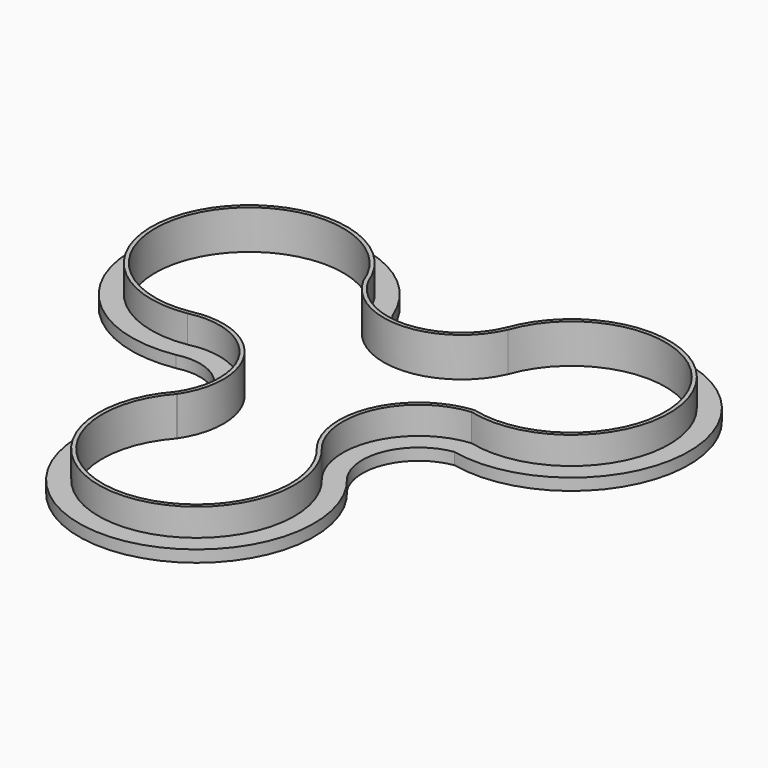
from build123d import *

# Parameters (mm, degrees)
F1_DEPTH = 3
F2_DEPTH = 10


with BuildPart() as f1:
    # F0 (on Top) → F1 (new body)
    with BuildSketch(Plane.XY):
        with BuildLine():
            ThreePointArc((11.75598, 34.46051), (-0.188241, 26.310271), (-12.897683, 33.206712))
            ThreePointArc((-12.897683, 33.206712), (-66.969323, 37.378844), (-35.915981, -7.082813))
            ThreePointArc((-35.915981, -7.082813), (-22.055212, -12.196979), (-21.628703, -26.964976))
            ThreePointArc((-21.628703, -26.964976), (0.871706, -76.686678), (23.722724, -27.12513))
            ThreePointArc((23.722724, -27.12513), (22.633328, -13.447379), (33.536886, -5.117908))
            ThreePointArc((33.536886, -5.117908), (66.226082, 38.654176), (11.75598, 34.46051))
        make_face()
        with BuildLine():
            ThreePointArc((-36.907983, -2.179073), (-62.499458, 35.120673), (-17.444433, 31.090865))
            ThreePointArc((-17.444433, 31.090865), (-0.055128, 21.310967), (16.39825, 32.594616))
            ThreePointArc((16.39825, 32.594616), (62.001748, 35.955299), (33.807071, -0.045165))
            ThreePointArc((33.807071, -0.045165), (18.206542, -11.104836), (19.741163, -30.166258))
            ThreePointArc((19.741163, -30.166258), (0.868135, -71.686626), (-17.640413, -30.002506))
            ThreePointArc((-17.640413, -30.002506), (-17.812054, -9.538309), (-36.907983, -2.179073))
        make_face(mode=Mode.SUBTRACT)
    extrude(amount=F1_DEPTH)

    # F0 (on Top) → F2 (join)
    with BuildSketch(Plane.XY):
        with BuildLine():
            ThreePointArc((16.39825, 32.594616), (-0.055128, 21.310967), (-17.444433, 31.090865))
            ThreePointArc((-17.444433, 31.090865), (-62.499458, 35.120673), (-36.907983, -2.179073))
            ThreePointArc((-36.907983, -2.179073), (-17.812054, -9.538309), (-17.640413, -30.002506))
            ThreePointArc((-17.640413, -30.002506), (0.868135, -71.686626), (19.741163, -30.166258))
            ThreePointArc((19.741163, -30.166258), (18.206542, -11.104836), (33.807071, -0.045165))
            ThreePointArc((33.807071, -0.045165), (62.001748, 35.955299), (16.39825, 32.594616))
        make_face()
        with BuildLine():
            ThreePointArc((-37.101393, -1.197366), (-61.627895, 34.630095), (-18.383489, 30.747101))
            Line((-18.383489, 30.747101), (-18.321174, 30.609903))
            ThreePointArc((-18.321174, 30.609903), (-0.010738, 20.311953), (17.314193, 32.193309))
            Line((17.314193, 32.193309), (17.340047, 32.258435))
            ThreePointArc((17.340047, 32.258435), (61.119406, 35.484691), (34.052515, 0.924246))
            Line((34.052515, 0.924246), (33.70776, 0.949892))
            ThreePointArc((33.70776, 0.949892), (17.300467, -10.681719), (18.914449, -30.728881))
            Line((18.914449, -30.728881), (18.990622, -30.827082))
            ThreePointArc((18.990622, -30.827082), (0.872515, -70.686635), (-16.895691, -30.669881))
            Line((-16.895691, -30.669881), (-16.808859, -30.55795))
            ThreePointArc((-16.808859, -30.55795), (-16.979997, -8.983359), (-37.101393, -1.197366))
        make_face(mode=Mode.SUBTRACT)
    extrude(amount=F2_DEPTH)


solid = f1.part
